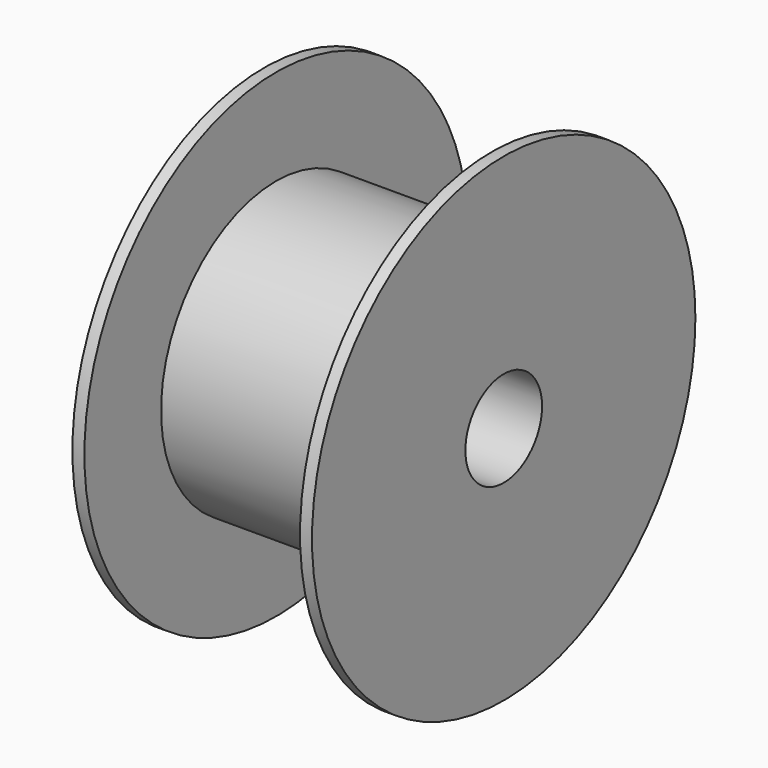
from build123d import *

# Parameters (mm, degrees)
F0_R          = 100
F0_R_2        = 20
F1_DEPTH      = 50
F1_DEPTH_BACK = 50
F2_W          = 90
F2_H          = 40


with BuildPart() as f1:
    # F0 (on Right) → F1 (new body, two sides)
    with BuildSketch(Plane.YZ) as f1_sk:
        Circle(F0_R)
        Circle(F0_R_2, mode=Mode.SUBTRACT)
    extrude(amount=F1_DEPTH)
    extrude(f1_sk.sketch, amount=-F1_DEPTH_BACK)

    # F2 (on Front) → F3 (revolve, cut)
    with BuildSketch(Plane.XZ):
        with Locations((0, 80)):
            Rectangle(F2_W, F2_H)
    revolve(axis=Axis((-15, 0, 0), (-1, 0, 0)), mode=Mode.SUBTRACT)


solid = f1.part
